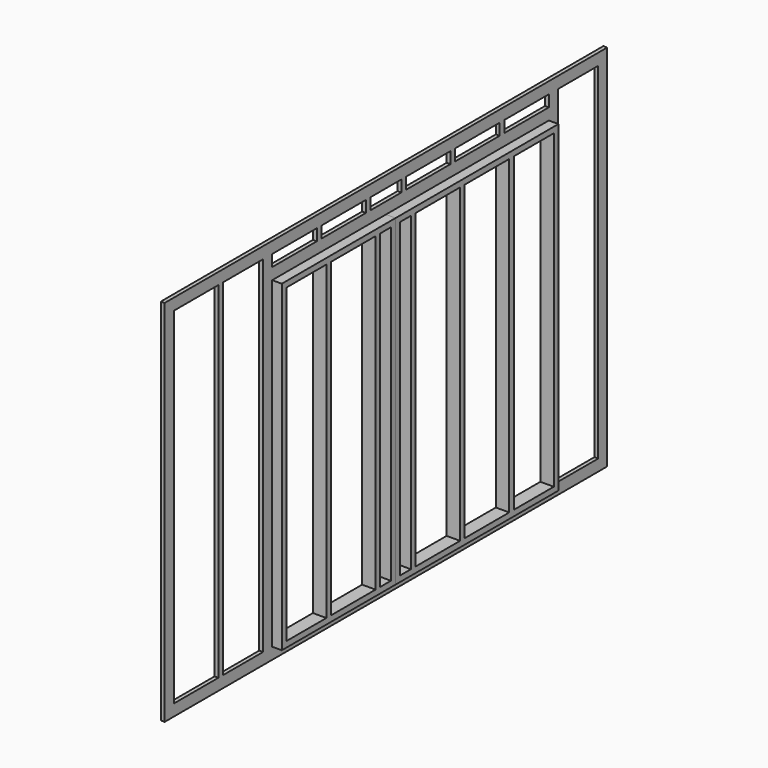
from build123d import *

# Parameters (mm, degrees)
F0_W     = 38.1
F0_H     = 2057.4
F1_DEPTH = 88.9
F2_DEPTH = 88.9
F0_W_2   = 36.075156
F0_H_2   = 2286
F0_H_3   = 2133.6
F0_H_4   = 76.2
F3_DEPTH = 25.4


with BuildPart() as f1:
    # F0 (on Right) → F1 (new body)
    with BuildSketch(Plane.YZ):
        Polygon((1346.2, 952.5), (1346.2, 990.6), (0, 990.6), (0, 952.5), (38.1, 952.5), (127, 952.5), (165.1, 952.5), (533.4, 952.5), (571.5, 952.5), (939.8, 952.5), (977.9, 952.5), (1308.1, 952.5), align=None)
        with Locations((19.05, -76.2)):
            Rectangle(F0_W, F0_H)
        with Locations((146.05, -76.2)):
            Rectangle(F0_W, F0_H)
        Polygon((977.9, -1143), (1346.2, -1143), (1346.2, -1104.9), (1308.1, -1104.9), (977.9, -1104.9), (939.8, -1104.9), (571.5, -1104.9), (533.4, -1104.9), (165.1, -1104.9), (127, -1104.9), (38.1, -1104.9), (0, -1104.9), (0, -1143), (38.1, -1143), (127, -1143), (165.1, -1143), (533.4, -1143), (571.5, -1143), (939.8, -1143), align=None)
        with Locations((552.45, -76.2)):
            Rectangle(F0_W, F0_H)
        with Locations((958.85, -76.2)):
            Rectangle(F0_W, F0_H)
        with Locations((1327.15, -76.2)):
            Rectangle(F0_W, F0_H)
    extrude(amount=F1_DEPTH)


with BuildPart() as f2:
    # F0 (on Right) → F2 (new body)
    with BuildSketch(Plane.YZ):
        Polygon((0, 990.6), (-939.8, 990.6), (-939.8, 952.5), (-901.7, 952.5), (-571.5, 952.5), (-533.4, 952.5), (-165.1, 952.5), (-127, 952.5), (-38.1, 952.5), (0, 952.5), align=None)
        with Locations((-19.05, -76.2)):
            Rectangle(F0_W, F0_H)
        with Locations((-146.05, -76.2)):
            Rectangle(F0_W, F0_H)
        with Locations((-552.45, -76.2)):
            Rectangle(F0_W, F0_H)
        with Locations((-920.75, -76.2)):
            Rectangle(F0_W, F0_H)
        Polygon((-939.8, -1104.9), (-939.8, -1143), (-571.5, -1143), (-533.4, -1143), (-165.1, -1143), (-127, -1143), (-38.1, -1143), (0, -1143), (0, -1104.9), (-38.1, -1104.9), (-127, -1104.9), (-165.1, -1104.9), (-533.4, -1104.9), (-571.5, -1104.9), (-901.7, -1104.9), align=None)
    extrude(amount=F2_DEPTH)


with BuildPart() as f3:
    # F0 (on Right) → F3 (new body)
    with BuildSketch(Plane.YZ):
        Polygon((-1828.8, 1219.2), (-1828.8, 1181.1), (0, 1181.1), (1828.8, 1181.1), (1828.8, 1219.2), align=None)
        Polygon((-1828.8, 1181.1), (-1828.8, 1143), (-1790.7, 1143), (-1752.6, 1143), (-1384.3, 1143), (-1346.2, 1143), (-1016, 1143), (-977.9, 1143), (-939.8, 1143), (-571.5, 1143), (-533.4, 1143), (-165.1, 1143), (-127, 1143), (-38.1, 1143), (0, 1143), (38.1, 1143), (127, 1143), (165.1, 1143), (533.4, 1143), (571.5, 1143), (939.8, 1143), (977.9, 1143), (1346.2, 1143), (1384.3, 1143), (1422.4, 1143), (1754.624844, 1143), (1792.724844, 1143), (1828.8, 1143), (1828.8, 1181.1), (0, 1181.1), align=None)
        Polygon((1422.4, 1028.7), (1422.4, 1066.8), (1384.3, 1066.8), (1346.2, 1066.8), (977.9, 1066.8), (939.8, 1066.8), (571.5, 1066.8), (533.4, 1066.8), (165.1, 1066.8), (127, 1066.8), (-127, 1066.8), (-165.1, 1066.8), (-533.4, 1066.8), (-571.5, 1066.8), (-939.8, 1066.8), (-977.9, 1066.8), (-1016, 1066.8), (-1016, 1028.7), (-939.8, 1028.7), (1346.2, 1028.7), align=None)
        Polygon((1384.3, 990.6), (1422.4, 990.6), (1422.4, 1028.7), (1346.2, 1028.7), (-939.8, 1028.7), (-1016, 1028.7), (-1016, 990.6), (-977.9, 990.6), (-939.8, 990.6), (0, 990.6), (1346.2, 990.6), align=None)
        Polygon((-1828.8, -1143), (-1828.8, -1181.1), (0, -1181.1), (1828.8, -1181.1), (1828.8, -1143), (1792.724844, -1143), (1754.624844, -1143), (1422.4, -1143), (1384.3, -1143), (1346.2, -1143), (977.9, -1143), (939.8, -1143), (571.5, -1143), (533.4, -1143), (165.1, -1143), (127, -1143), (38.1, -1143), (0, -1143), (-38.1, -1143), (-127, -1143), (-165.1, -1143), (-533.4, -1143), (-571.5, -1143), (-939.8, -1143), (-977.9, -1143), (-1016, -1143), (-1346.2, -1143), (-1384.3, -1143), (-1752.6, -1143), (-1790.7, -1143), align=None)
        Polygon((-1828.8, -1181.1), (-1828.8, -1219.2), (0, -1219.2), (1828.8, -1219.2), (1828.8, -1181.1), (0, -1181.1), align=None)
        with Locations((1810.762422, 0)):
            Rectangle(F0_W_2, F0_H_2)
        with Locations((1773.674844, 0)):
            Rectangle(F0_W, F0_H_2)
        with Locations((1403.35, -76.2)):
            Rectangle(F0_W, F0_H_3)
        Polygon((1346.2, -1143), (1384.3, -1143), (1384.3, 990.6), (1346.2, 990.6), (1346.2, 952.5), (1346.2, -1104.9), align=None)
        Polygon((-977.9, 990.6), (-977.9, -1143), (-939.8, -1143), (-939.8, -1104.9), (-939.8, 952.5), (-939.8, 990.6), align=None)
        with Locations((-996.95, -76.2)):
            Rectangle(F0_W, F0_H_3)
        with Locations((-1365.25, 0)):
            Rectangle(F0_W, F0_H_2)
        with Locations((-1771.65, 0)):
            Rectangle(F0_W, F0_H_2)
        with Locations((-1809.75, 0)):
            Rectangle(F0_W, F0_H_2)
        with Locations((-996.95, 1104.9)):
            Rectangle(F0_W, F0_H_4)
        with Locations((-958.85, 1104.9)):
            Rectangle(F0_W, F0_H_4)
        with Locations((-552.45, 1104.9)):
            Rectangle(F0_W, F0_H_4)
        with Locations((-146.05, 1104.9)):
            Rectangle(F0_W, F0_H_4)
        with Locations((146.05, 1104.9)):
            Rectangle(F0_W, F0_H_4)
        with Locations((552.45, 1104.9)):
            Rectangle(F0_W, F0_H_4)
        with Locations((958.85, 1104.9)):
            Rectangle(F0_W, F0_H_4)
        with Locations((1365.25, 1104.9)):
            Rectangle(F0_W, F0_H_4)
        with Locations((1403.35, 1104.9)):
            Rectangle(F0_W, F0_H_4)
    extrude(amount=F3_DEPTH)


solid = Compound([f1.part, f2.part, f3.part])
